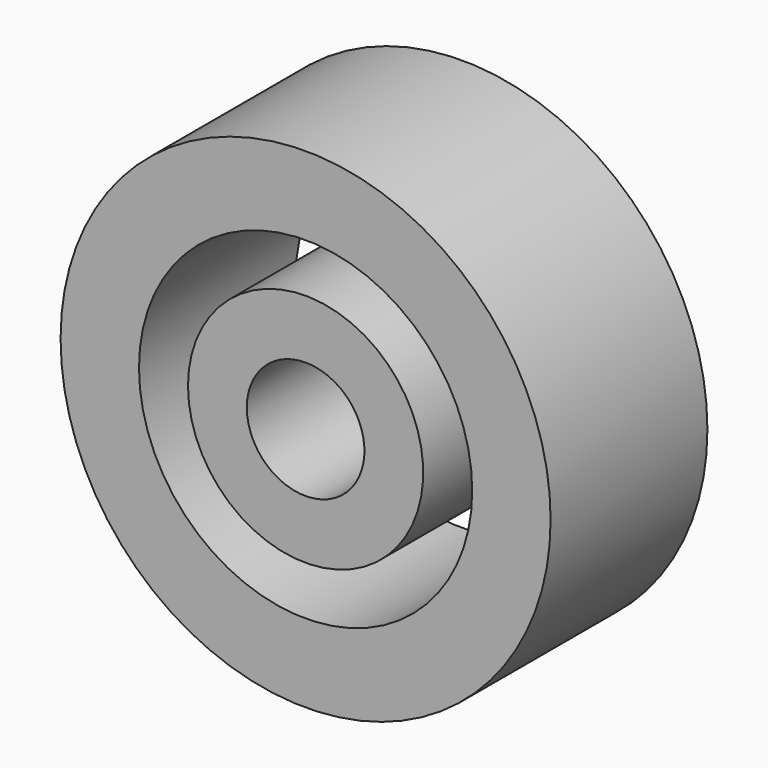
from build123d import *

# Parameters (mm, degrees)
F0_W = 8
F0_H = 20
F3_W = 6
F3_H = 20


with BuildPart() as f2:
    # F0 (on Top) → F2 (revolve)
    with BuildSketch(Plane.XY):
        with Locations((-21, 0)):
            Rectangle(F0_W, F0_H)
    revolve(axis=Axis((0, -1.9382, 0), (0, -1, 0)))


with BuildPart() as f4:
    # F3 (on Top) → F4 (revolve)
    with BuildSketch(Plane.XY):
        with Locations((-9, 0)):
            Rectangle(F3_W, F3_H)
    revolve(axis=Axis((0, -1.9382, 0), (0, -1, 0)))


solid = Compound([f2.part, f4.part])
